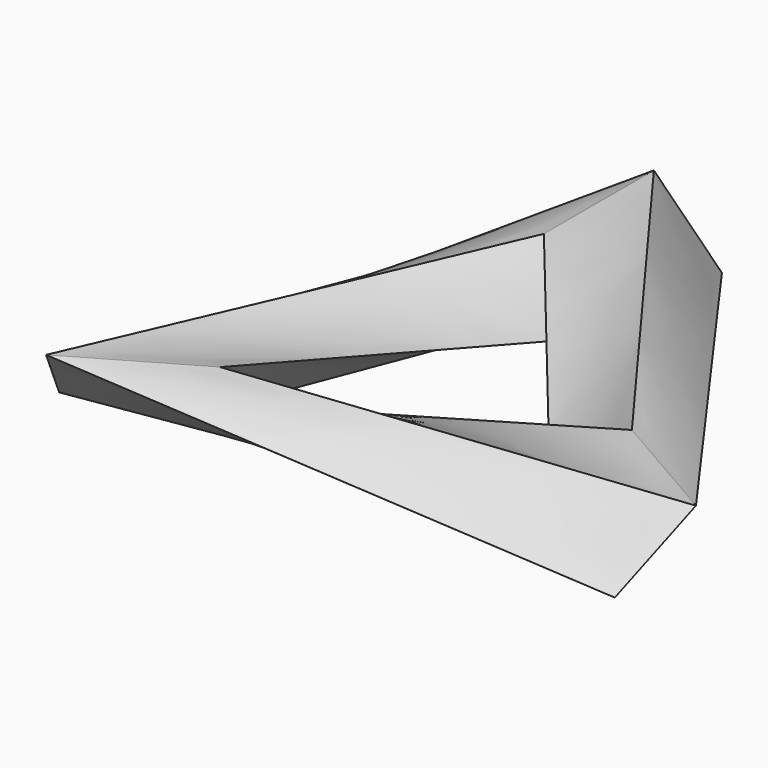
from build123d import *

# Parameters (mm, degrees)
F2_W       = 10.5
F2_H       = 15
F7_FACE_W  = 15
F7_FACE_H  = 10.5
F8_FACE_W  = 15
F8_FACE_H  = 10.5
F7_FACE1_W = 15
F7_FACE1_H = 10.5


with BuildPart() as f7:
    # F2 (on line) → F7 section 0
    with BuildSketch(Plane(origin=(0, 0, 0), x_dir=(0.7071067812, 0, -0.7071067812), z_dir=(0.7071067812, 0, 0.7071067812))):
        with Locations((-5.25, 27.5)):
            Rectangle(F2_W, F2_H)
    # F4 (on line) → F7 section 1
    with BuildSketch(Plane(origin=(0, 0, 0), x_dir=(0.9354143467, 0.2314550249, 0.2672612419), z_dir=(0.3535533906, -0.6123724357, -0.7071067812))):
        Polygon((-18.5164019955, 7.5592894602), (-14.5477750289, 17.2804005078), (-28.4350765254, 22.9498676029), (-32.403703492, 13.2287565553), align=None)
    loft()

    # F7_face (on face) → F8 section 0
    with BuildSketch(Plane(origin=(-21.9595433035, -16.9649552874, 3.7123106012), x_dir=(0.8660254038, 0.5, 0), z_dir=(0.3535533906, -0.6123724357, -0.7071067812))):
        Rectangle(F7_FACE_W, F7_FACE_H)
    # F6 (on line) → F8 section 1
    with BuildSketch(Plane(origin=(0, 0, 0), x_dir=(0.9354143467, -0.2314550249, 0.2672612419), z_dir=(0.3535533906, 0.6123724357, -0.7071067812))):
        Polygon((32.403703492, 13.2287565553), (18.5164019955, 7.5592894602), (22.485028962, -2.1618215874), (36.3723304586, 3.5076455077), align=None)
    loft()

    # F8_face (on face) → F9 section 0
    with BuildSketch(Plane(origin=(25.6718539047, -10.5350447126, 3.7123106012), x_dir=(-0.8660254038, 0.5, 0), z_dir=(0.3535533906, 0.6123724357, -0.7071067812))):
        Rectangle(F8_FACE_W, F8_FACE_H)
    # F7_face1 (on face) → F9 section 1
    with BuildSketch(Plane(origin=(-3.7123106012, 27.5, 3.7123106012), x_dir=(0, 1, 0), z_dir=(0.7071067812, 0, 0.7071067812))):
        Rectangle(F7_FACE1_W, F7_FACE1_H)
    loft()


solid = f7.part
